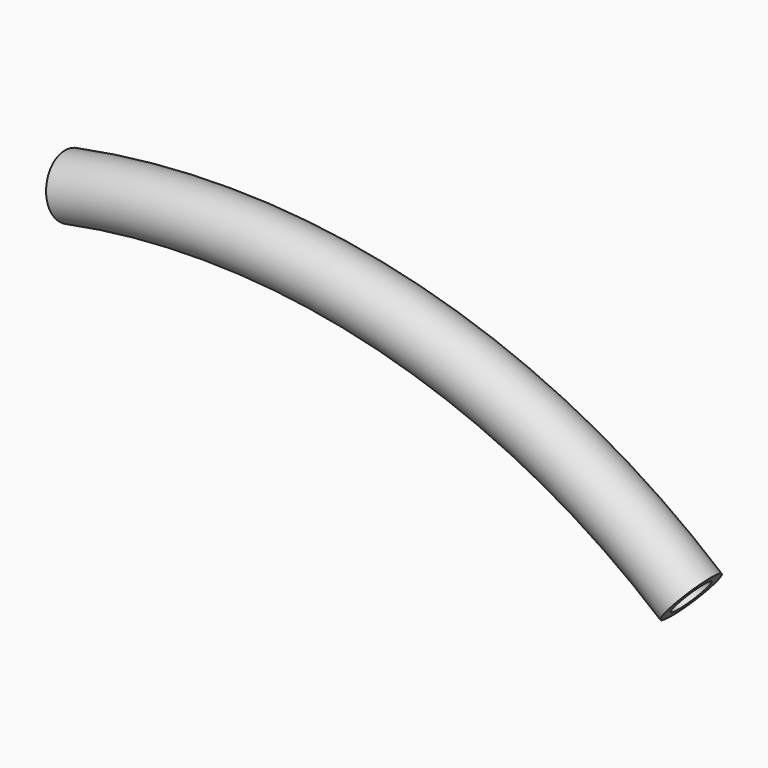
from build123d import *

# Parameters (mm, degrees)
F2_R   = 8.89
F2_R_2 = 5.9436


with BuildPart() as f3:
    # F3: sweep along a path in F0
    with BuildLine(Plane.XZ) as f3_path:
        ThreePointArc((-208.532376, 164.923688), (-111.228863, 162.115195), (-24.713629, 117.494847))
    # F2 (on face) → F3 (sweep)
    with BuildSketch(Plane(origin=(-169.397843, 0, -33.422845), x_dir=(0, -1, 0), z_dir=(-0.981086, 0, -0.193572))):
        with Locations((0, 202.17037)):
            Circle(F2_R)
        with Locations((0, 202.17037)):
            Circle(F2_R_2, mode=Mode.SUBTRACT)
    sweep(path=f3_path.line)


solid = f3.part
